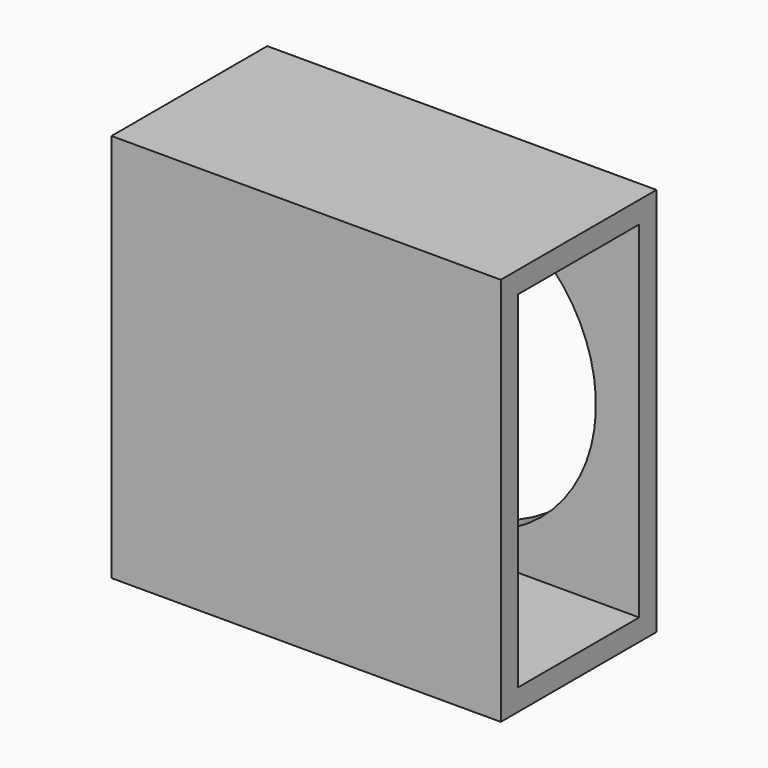
from build123d import *

# Parameters (mm, degrees)
F0_W     = 90
F0_H     = 90
F1_DEPTH = 45
F2_T     = -5
F3_D     = 70
F3_DEPTH = 10
F3_TIP   = 21.030121666
F6_D     = 20
F6_DEPTH = 12
F6_TIP   = 6.0086061903


with BuildPart() as f1:
    # F0 (on Front) → F1 (new body)
    with BuildSketch(Plane.XZ):
        Rectangle(F0_W, F0_H)
    extrude(amount=F1_DEPTH)

    # F2
    f2_openings = [f1.faces().sort_by_distance(p)[0] for p in [
        (45, -22.5, 0),
    ]]
    offset(amount=F2_T, openings=f2_openings)

    # F3
    with Locations(Plane(origin=(0, 0, 0), x_dir=(1, 0, 0), z_dir=(0, 1, 0))):
        with Locations((0, 0)):
            Hole(F3_D / 2, depth=F3_DEPTH)
            with Locations((0, 0, -(F3_DEPTH + F3_TIP / 2))):  # 118° drill point
                Cone(0, F3_D / 2, F3_TIP, mode=Mode.SUBTRACT)

    # F6
    with Locations(Plane(origin=(-45, 0, 0), x_dir=(0, -1, 0), z_dir=(-1, 0, 0))):
        with Locations((15.1247903705, 22.6402059197)):
            Hole(F6_D / 2, depth=F6_DEPTH)
            with Locations((0, 0, -(F6_DEPTH + F6_TIP / 2))):  # 118° drill point
                Cone(0, F6_D / 2, F6_TIP, mode=Mode.SUBTRACT)


solid = f1.part
